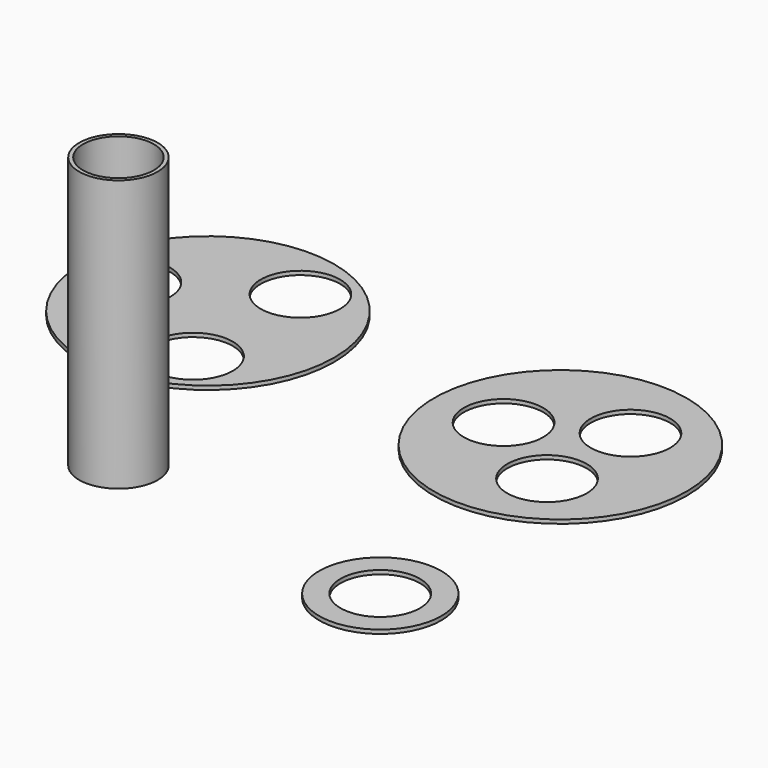
from build123d import *

# Parameters (mm, degrees)
F0_R     = 32.6
F0_R_2   = 10.25
F1_DEPTH = 1
F0_R_3   = 10.125
F0_R_4   = 9.125
F2_DEPTH = 70
F0_R_5   = 6
F3_DEPTH = 10
F0_R_6   = 15.75
F4_DEPTH = 1


with BuildPart() as f1:
    # F0 (on Top) → F1 (new body)
    with BuildSketch(Plane.XY):
        with Locations((-64.324602, 40.010083)):
            Circle(F0_R)
        with Locations((-84.324602, 40.010083)):
            Circle(F0_R_2, mode=Mode.SUBTRACT)
        with Locations((-54.324602, 22.689575)):
            Circle(F0_R_2, mode=Mode.SUBTRACT)
        with Locations((-54.324602, 57.330592)):
            Circle(F0_R_2, mode=Mode.SUBTRACT)
        with Locations((27.569331, 38.758329)):
            Circle(F0_R)
        with Locations((12.575513, 39.188946)):
            Circle(F0_R_2, mode=Mode.SUBTRACT)
        with Locations((34.693315, 25.557994)):
            Circle(F0_R_2, mode=Mode.SUBTRACT)
        with Locations((35.439164, 51.528048)):
            Circle(F0_R_2, mode=Mode.SUBTRACT)
    extrude(amount=F1_DEPTH)


with BuildPart() as f2:
    # F0 (on Top) → F2 (new body)
    with BuildSketch(Plane.XY):
        with Locations((-37.46976, -22.409273)):
            Circle(F0_R_3)
        with Locations((-37.46976, -22.409273)):
            Circle(F0_R_4, mode=Mode.SUBTRACT)
    extrude(amount=F2_DEPTH)

    # F0 (on Top) → F3 (join)
    with BuildSketch(Plane.XY):
        with Locations((-37.46976, -22.409273)):
            Circle(F0_R_4)
        with Locations((-37.46976, -22.409273)):
            Circle(F0_R_5, mode=Mode.SUBTRACT)
    extrude(amount=F3_DEPTH)


with BuildPart() as f4:
    # F0 (on Top) → F4 (new body)
    with BuildSketch(Plane.XY):
        with Locations((39.767064, -34.549072)):
            Circle(F0_R_6)
        with Locations((39.767064, -34.549072)):
            Circle(F0_R_2, mode=Mode.SUBTRACT)
    extrude(amount=F4_DEPTH)


solid = Compound([f1.part, f2.part, f4.part])
